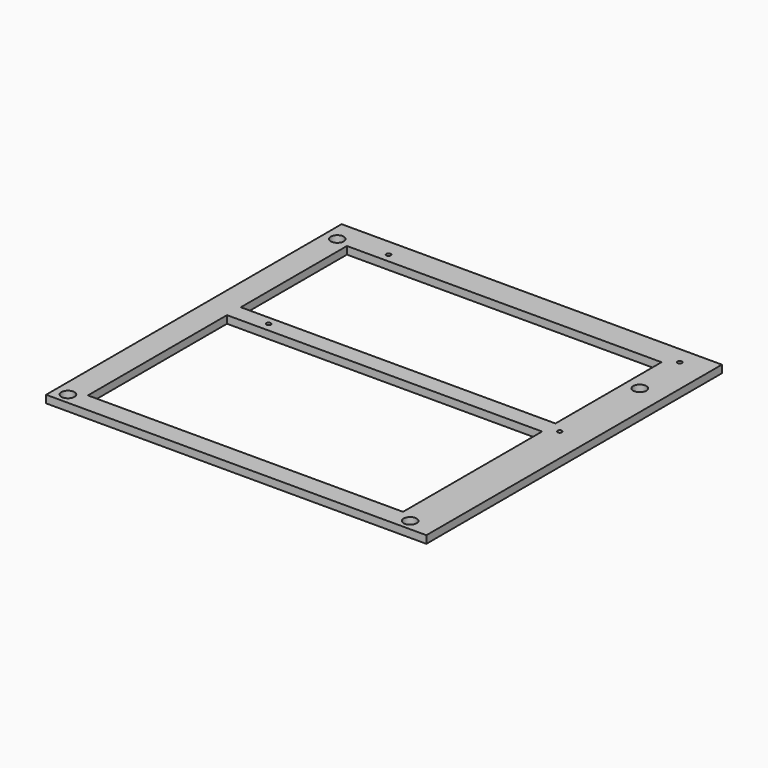
from build123d import *

# Parameters (mm, degrees)
SKETCH_W   = 175
SKETCH_H   = 170
SKETCH_R   = 3
SKETCH_R_2 = 1.025
SKETCH_W_2 = 145
SKETCH_H_2 = 80
SKETCH_W_3 = 144.774735
SKETCH_H_3 = 61.033017
PAD_DEPTH  = 3.5


with BuildPart() as part:
    # Sketch → Pad (new body)
    with BuildSketch(Plane.XY):
        with Locations((81.49518, -75)):
            Rectangle(SKETCH_W, SKETCH_H)
        Circle(SKETCH_R, mode=Mode.SUBTRACT)
        with Locations((0, -154.94)):
            Circle(SKETCH_R, mode=Mode.SUBTRACT)
        with Locations((157.48, -22.86)):
            Circle(SKETCH_R, mode=Mode.SUBTRACT)
        with Locations((157.48, -154.94)):
            Circle(SKETCH_R, mode=Mode.SUBTRACT)
        with Locations((22, 2)):
            Circle(SKETCH_R_2, mode=Mode.SUBTRACT)
        with Locations((156, 2)):
            Circle(SKETCH_R_2, mode=Mode.SUBTRACT)
        with Locations((22, -67)):
            Circle(SKETCH_R_2, mode=Mode.SUBTRACT)
        with Locations((156, -67)):
            Circle(SKETCH_R_2, mode=Mode.SUBTRACT)
        with Locations((78.558894, -111.02028)):
            Rectangle(SKETCH_W_2, SKETCH_H_2, mode=Mode.SUBTRACT)
        with Locations((78.48973, -32.597599)):
            Rectangle(SKETCH_W_3, SKETCH_H_3, mode=Mode.SUBTRACT)
    extrude(amount=PAD_DEPTH)


solid = part.part
